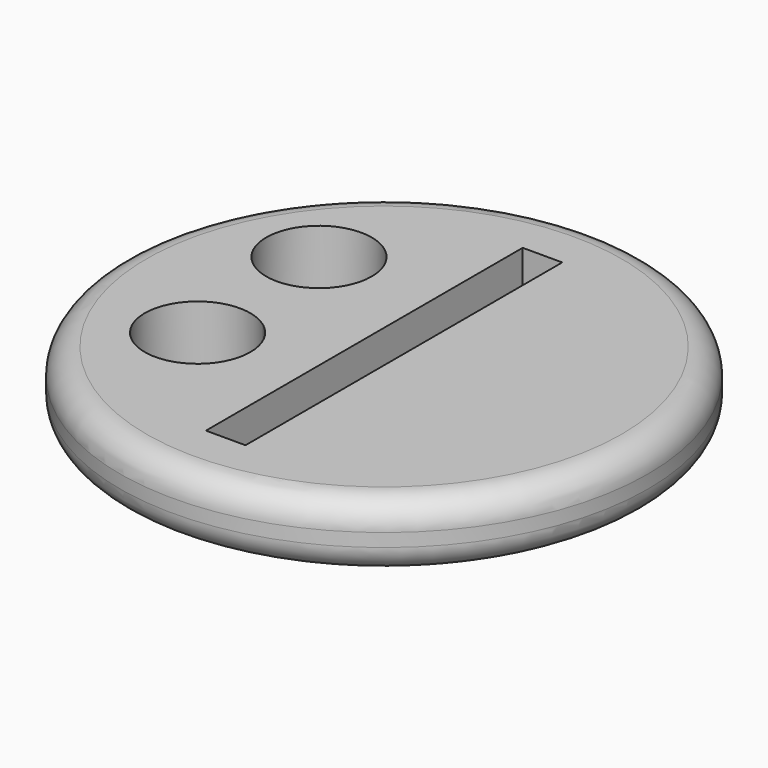
from build123d import *

# Parameters (mm, degrees)
F0_R     = 25.4
F0_R_2   = 5.08
F0_W     = 3.81
F0_H     = 38.1
F1_DEPTH = 6.35
F2_R     = 2.54


with BuildPart() as f1:
    # F0 (on Top) → F1 (new body)
    with BuildSketch(Plane.XY):
        with Locations((-134.285456, 19.05)):
            Circle(F0_R)
        with BuildLine():
            ThreePointArc((-143.547478, 16.089377), (-142.087057, 14.306864), (-141.564401, 12.062535))
            ThreePointArc((-141.564401, 12.062535), (-151.201745, 9.818205), (-143.547478, 16.089377))
        make_face(mode=Mode.SUBTRACT)
        with Locations((-147.212275, 27.376856)):
            Circle(F0_R_2, mode=Mode.SUBTRACT)
        with Locations((-134.285456, 19.05)):
            Rectangle(F0_W, F0_H, mode=Mode.SUBTRACT)
    extrude(amount=F1_DEPTH)

    # F2
    f2_edges = [f1.edges().sort_by_distance(p)[0] for p in [
        (-159.685456, 19.05, 6.35),
        (-159.685456, 19.05, 0),
    ]]
    fillet(f2_edges, radius=F2_R)


solid = f1.part
